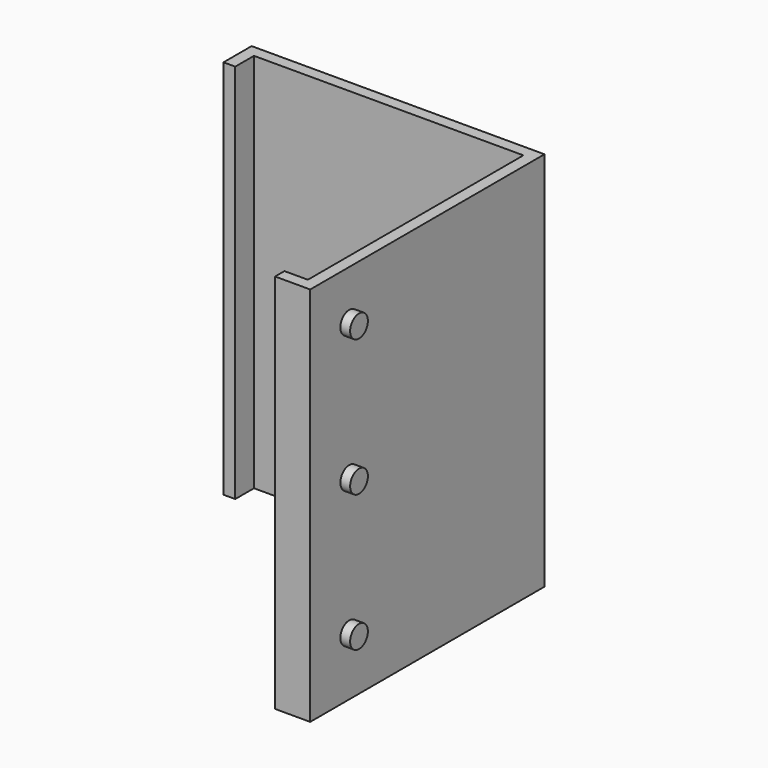
from build123d import *

# Parameters (mm, degrees)
F1_DEPTH = 195
F2_R     = 5.682985
F3_DEPTH = 5
F4_R     = 5.682985
F5_DEPTH = 5


with BuildPart() as f1:
    # F0 (on Top) → F1 (new body)
    with BuildSketch(Plane.XY):
        Polygon((75.046803, 83.914765), (-74.953197, 83.914765), (-74.953197, 65.914765), (-68.953197, 65.914765), (-68.953197, 77.914765), (69.046803, 77.914765), (69.046803, -60.085235), (57.046803, -60.085235), (57.046803, -66.085235), (75.046803, -66.085235), align=None)
    extrude(amount=F1_DEPTH)

    # F2 (on face) → F3 (join)
    with BuildSketch(Plane.YZ.offset(75.046803)):
        with Locations((-41.085235, 170)):
            Circle(F2_R)
        with Locations((-41.085235, 100)):
            Circle(F2_R)
        with Locations((-41.085235, 30)):
            Circle(F2_R)
    extrude(amount=F3_DEPTH)

    # F4 (on face) → F5 (join)
    with BuildSketch(Plane(origin=(0, 83.914765, 0), x_dir=(-1, 0, 0), z_dir=(0, 1, 0))):
        with Locations((54.953197, 175)):
            Circle(F4_R)
        with Locations((54.953197, 105)):
            Circle(F4_R)
        with Locations((54.953197, 35)):
            Circle(F4_R)
    extrude(amount=F5_DEPTH)


solid = f1.part
